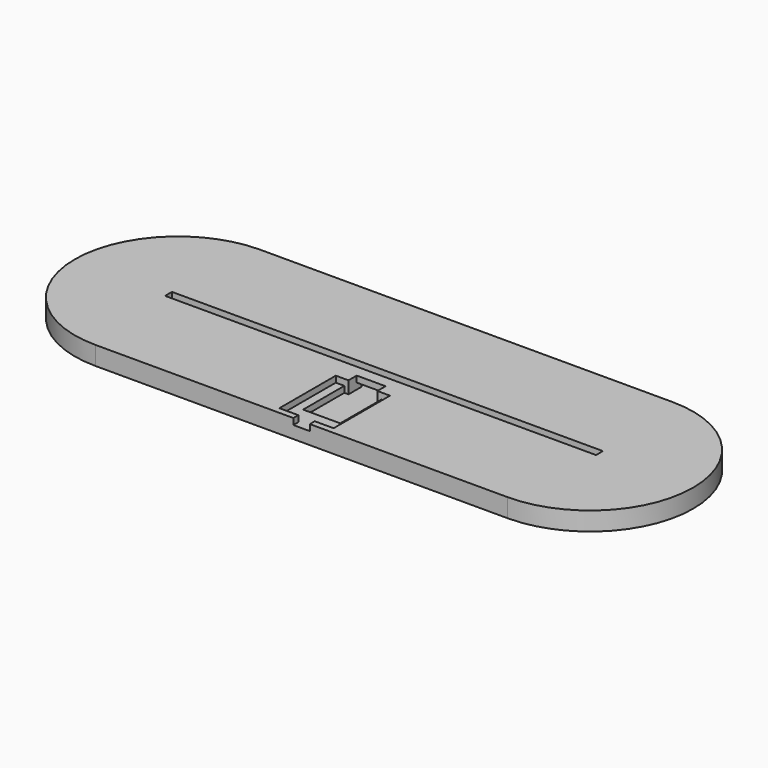
from build123d import *

# Parameters (mm, degrees)
PAD_DEPTH       = 3
PAD001_DEPTH    = 3
SKETCH002_W     = 209.08447
SKETCH002_H     = 4.18
PAD002_DEPTH    = 3
SKETCH003_W     = 26.3
SKETCH003_H     = 34.2
POCKET_DEPTH    = 3
SKETCH004_W     = 18
SKETCH004_H     = 25
POCKET001_DEPTH = 3
SKETCH005_W     = 14
SKETCH005_H     = 5
POCKET002_DEPTH = 6
SKETCH006_W     = 14
SKETCH006_H     = 3
POCKET003_DEPTH = 3
SKETCH007_W     = 8
SKETCH007_H     = 3
POCKET004_DEPTH = 3


with BuildPart() as part:
    # Sketch → Pad (new body)
    with BuildSketch(Plane.XY):
        with BuildLine():
            ThreePointArc((-100, 50), (-150, 0), (-100, -50))
            Line((-100, -50), (100, -50))
            ThreePointArc((100, -50), (150, 0), (100, 50))
            Line((-100, 50), (100, 50))
        make_face()
    extrude(amount=PAD_DEPTH)

    # Sketch001 (on Face6 of Pad) → Pad001 (join)
    with BuildSketch(Plane.XY.offset(3)):
        with BuildLine():
            ThreePointArc((-100, 50), (-150, 0), (-100, -50))
            Line((-100, -50), (100, -50))
            ThreePointArc((100, -50), (150, 0), (100, 50))
            Line((-100, 50), (100, 50))
        make_face()
        with BuildLine():
            ThreePointArc((-100, 5), (-105, 0), (-100, -5))
            Line((-100, -5), (100, -5))
            ThreePointArc((100, -5), (105, 0), (100, 5))
            Line((-100, 5), (100, 5))
        make_face(mode=Mode.SUBTRACT)
    extrude(amount=PAD001_DEPTH)

    # Sketch002 (on Face9 of Pad001) → Pad002 (join)
    with BuildSketch(Plane.XY.offset(6)):
        with BuildLine():
            ThreePointArc((-100, 50), (-150, 0), (-100, -50))
            Line((-100, -50), (100, -50))
            ThreePointArc((100, -50), (150, 0), (100, 50))
            Line((-100, 50), (100, 50))
        make_face()
        Rectangle(SKETCH002_W, SKETCH002_H, mode=Mode.SUBTRACT)
    extrude(amount=PAD002_DEPTH)

    # Sketch003 (on Face13 of Pad002) → Pocket (cut)
    with BuildSketch(Plane.XY.offset(9)):
        with Locations((0, -29.9)):
            Rectangle(SKETCH003_W, SKETCH003_H)
    extrude(amount=-POCKET_DEPTH, mode=Mode.SUBTRACT)

    # Sketch004 (on Face27 of Pocket) → Pocket001 (cut)
    with BuildSketch(Plane.XY.offset(6)):
        with Locations((0, -25.3)):
            Rectangle(SKETCH004_W, SKETCH004_H)
    extrude(amount=-POCKET001_DEPTH, mode=Mode.SUBTRACT)

    # Sketch005 (on Face13 of Pocket001) → Pocket002 (cut)
    with BuildSketch(Plane.XY.offset(9)):
        with Locations((0, -10.3)):
            Rectangle(SKETCH005_W, SKETCH005_H)
    extrude(amount=-POCKET002_DEPTH, mode=Mode.SUBTRACT)

    # Sketch006 (on Face23 of Pocket002) → Pocket003 (cut)
    with BuildSketch(Plane.XZ.offset(7.8)):
        with Locations((0, 4.5)):
            Rectangle(SKETCH006_W, SKETCH006_H)
    extrude(amount=-POCKET003_DEPTH, mode=Mode.SUBTRACT)

    # Sketch007 (on Face13 of Pocket003) → Pocket004 (cut)
    with BuildSketch(Plane.XY.offset(9)):
        with Locations((0, -48.5)):
            Rectangle(SKETCH007_W, SKETCH007_H)
    extrude(amount=-POCKET004_DEPTH, mode=Mode.SUBTRACT)


solid = part.part
